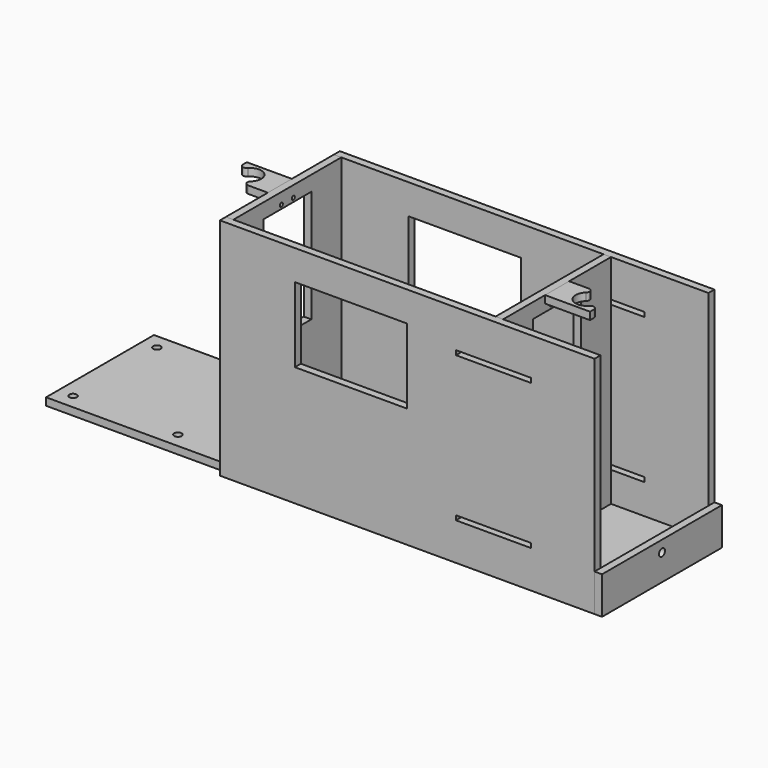
from build123d import *

# Parameters (mm, degrees)
F0_W      = 740
F0_H      = 180
F0_R      = 5
F1_DEPTH  = 10
F2_W      = 180
F2_H      = 290
F2_R      = 2.5
F2_W_2    = 80
F2_H_2    = 150
F3_DEPTH  = 10
F5_DEPTH  = 10
F8_W      = 180
F8_H      = 290
F8_R      = 2.5
F8_R_2    = 5
F8_W_2    = 80
F8_H_2    = 150
F9_DEPTH  = 10
F10_ANGLE = 180
F13_W     = 500
F13_H     = 300
F13_W_2   = 100
F13_H_2   = 6
F13_W_3   = 150
F13_H_3   = 100
F14_DEPTH = 10
F16_W     = 200
F16_H     = 50
F16_R     = 5
F17_DEPTH = 10


with BuildPart() as f1:
    # F0 (on Top) → F1 (new body)
    with BuildSketch(Plane.XY):
        with Locations((130, 0)):
            Rectangle(F0_W, F0_H)
        with Locations((-220, -70)):
            Circle(F0_R, mode=Mode.SUBTRACT)
        with Locations((-80, -70)):
            Circle(F0_R, mode=Mode.SUBTRACT)
        with Locations((-220, 70)):
            Circle(F0_R, mode=Mode.SUBTRACT)
        with Locations((-80, 70)):
            Circle(F0_R, mode=Mode.SUBTRACT)
    extrude(amount=F1_DEPTH)


with BuildPart() as f3:
    # F2 (on Right) → F3 (new body)
    with BuildSketch(Plane.YZ):
        with Locations((0, 155)):
            Rectangle(F2_W, F2_H)
        with Locations((-10, 125)):
            Circle(F2_R, mode=Mode.SUBTRACT)
        with Locations((10, 125)):
            Circle(F2_R, mode=Mode.SUBTRACT)
        with Locations((-10, 285)):
            Circle(F2_R, mode=Mode.SUBTRACT)
        with Locations((0, 205)):
            Rectangle(F2_W_2, F2_H_2, mode=Mode.SUBTRACT)
        with Locations((10, 285)):
            Circle(F2_R, mode=Mode.SUBTRACT)
    extrude(amount=F3_DEPTH)


with BuildPart() as f5:
    # F4 (on face) → F5 (new body)
    with BuildSketch(Plane.XY.offset(130)):
        with BuildLine():
            Line((-26.4328860401, -20), (0, -20))
            Line((0, -20), (0, 20))
            Line((0, 20), (-60, 20))
            Line((-60, 20), (-60, 13.5671139599))
            ThreePointArc((-60, 13.5671139599), (-56.9134171618, 8.9477162974), (-51.4644660941, 10.031580054))
            Line((-51.4644660941, 10.031580054), (-50.748023074, 10.748023074))
            ThreePointArc((-50.748023074, 10.748023074), (-29.251976926, 10.748023074), (-29.251976926, -10.748023074))
            Line((-29.251976926, -10.748023074), (-29.968419946, -11.4644660941))
            ThreePointArc((-29.968419946, -11.4644660941), (-31.0522837026, -16.9134171618), (-26.4328860401, -20))
        make_face()
    extrude(amount=-F5_DEPTH)


with BuildPart() as f6_1:
    # F6: copy of F5
    add(f5.part.moved(Location((0, 0, 170))))


with BuildPart() as f9:
    # F8 (on offset) → F9 (new body)
    with BuildSketch(Plane.YZ.offset(370)):
        with Locations((0, 155)):
            Rectangle(F8_W, F8_H)
        with Locations((-10, 125)):
            Circle(F8_R, mode=Mode.SUBTRACT)
        with Locations((0, 35)):
            Circle(F8_R_2, mode=Mode.SUBTRACT)
        with Locations((10, 125)):
            Circle(F8_R, mode=Mode.SUBTRACT)
        with Locations((-10, 285)):
            Circle(F8_R, mode=Mode.SUBTRACT)
        with Locations((0, 205)):
            Rectangle(F8_W_2, F8_H_2, mode=Mode.SUBTRACT)
        with Locations((10, 285)):
            Circle(F8_R, mode=Mode.SUBTRACT)
    extrude(amount=-F9_DEPTH)


with BuildPart() as f10_1:
    # F10: copy of F5
    add(f5.part.rotate(Axis((0, 40, 205), (0, 0, -1)), F10_ANGLE))


with BuildPart() as f10_1_1:
    # F11: moved
    add(f10_1.part.moved(Location((370, -80, 0))))


with BuildPart() as f12_1:
    # F12: copy of F10_1
    add(f10_1_1.part.moved(Location((0, 0, 170))))


with BuildPart() as f14:
    # F13 (on face) → F14 (new body)
    with BuildSketch(Plane.XZ.offset(90)):
        with Locations((250, 150)):
            Rectangle(F13_W, F13_H)
        with Locations((365, 53)):
            Rectangle(F13_W_2, F13_H_2, mode=Mode.SUBTRACT)
        with Locations((175, 210)):
            Rectangle(F13_W_3, F13_H_3, mode=Mode.SUBTRACT)
        with Locations((365, 247)):
            Rectangle(F13_W_2, F13_H_2, mode=Mode.SUBTRACT)
    extrude(amount=F14_DEPTH)


with BuildPart() as f15_1:
    # F15: instance of F14
    add(f14.part.mirror(Plane.XZ))


with BuildPart() as f17:
    # F16 (on face) → F17 (new body)
    with BuildSketch(Plane.YZ.offset(500)):
        with Locations((0, 25)):
            Rectangle(F16_W, F16_H)
        with Locations((0, 35)):
            Circle(F16_R, mode=Mode.SUBTRACT)
    extrude(amount=F17_DEPTH)


solid = Compound([f1.part, f3.part, f5.part, f6_1.part, f9.part, f10_1_1.part, f12_1.part, f14.part, f15_1.part, f17.part])
